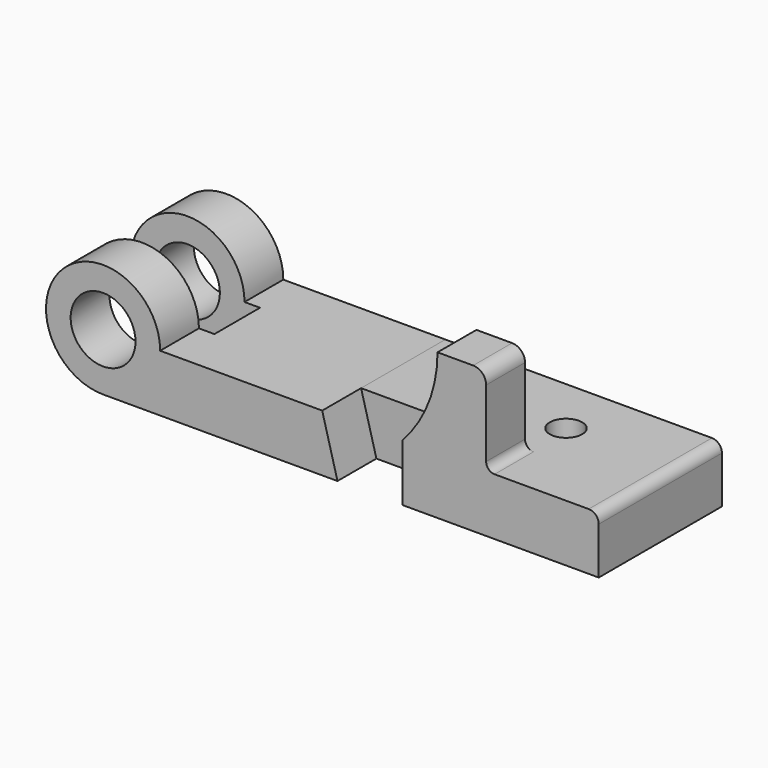
from build123d import *

# Parameters (mm, degrees)
F1_DEPTH = 60.325
F2_DEPTH = 19.05
F0_R     = 12.7
F3_DEPTH = 60.325
F4_DEPTH = 60.325
F5_DEPTH = 19.05
F6_W     = 6.072669208
F6_H     = 22.3266
F6_W_2   = 55.7985371435
F7_DEPTH = 105.41
F8_R     = 6.35
F9_DEPTH = 22.353


with BuildPart() as f1:
    # F0 (on Front) → F1 (new body)
    with BuildSketch(Plane.XZ):
        with BuildLine():
            Line((31.3182, -28.575), (108.2802, -28.575))
            Line((108.2802, -28.575), (108.2802, -10.16))
            ThreePointArc((108.2802, -10.16), (107.1270793975, -7.3761206025), (104.3432, -6.223))
            Line((104.3432, -6.223), (67.4624, -6.223))
            Line((67.4624, -6.223), (31.3182, -6.223))
            Line((31.3182, -6.223), (31.3182, -28.575))
        make_face()
    extrude(amount=-F1_DEPTH)

    # F0 (on Front) → F2 (join)
    with BuildSketch(Plane.XZ):
        with BuildLine():
            ThreePointArc((45.1104, 28.575), (41.5362153616, 9.8593576341), (31.3182, -6.223))
            Line((31.3182, -6.223), (67.4624, -6.223))
            ThreePointArc((67.4624, -6.223), (65.1275334085, -5.2558665915), (64.1604, -2.921))
            Line((64.1604, -2.921), (64.1604, 23.495))
            ThreePointArc((64.1604, 23.495), (62.6725024484, 27.0871024484), (59.0804, 28.575))
            Line((59.0804, 28.575), (45.1104, 28.575))
        make_face()
    extrude(amount=-F2_DEPTH)

    # F8 (on face) → F9 (cut, through all)
    with BuildSketch(Plane.XY.offset(-6.223)):
        with Locations((65.4812, 37.465)):
            Circle(F8_R)
    extrude(amount=-F9_DEPTH, mode=Mode.SUBTRACT)


with BuildPart() as f3:
    # F0 (on Front) → F3 (new body)
    with BuildSketch(Plane.XZ):
        with BuildLine():
            Line((-85.9282, -28.575), (5.9182, -28.575))
            Line((5.9182, -28.575), (-0.0762, -6.223))
            Line((-0.0762, -6.223), (-63.5762, -6.223))
            ThreePointArc((-63.5762, -6.223), (-101.7334507731, 9.5822507731), (-85.9282, -28.575))
        make_face()
        with Locations((-85.9282, -6.223)):
            Circle(F0_R, mode=Mode.SUBTRACT)
    extrude(amount=-F3_DEPTH)

    # F6 (on face) → F7 (cut, symmetric)
    with BuildSketch(Plane.XY.offset(-6.223)):
        with Locations((-60.539865396, 30.1625)):
            Rectangle(F6_W, F6_H)
        with Locations((-91.4754685718, 30.1625)):
            Rectangle(F6_W_2, F6_H)
    extrude(amount=F7_DEPTH, both=True, mode=Mode.SUBTRACT)


with BuildPart() as f4:
    # F0 (on Front) → F4 (new body)
    with BuildSketch(Plane.XZ):
        Polygon((5.9182, -28.575), (31.3182, -28.575), (31.3182, -6.223), (-0.0762, -6.223), align=None)
    extrude(amount=-F4_DEPTH)

    # F0 (on Front) → F5 (cut)
    with BuildSketch(Plane.XZ):
        Polygon((5.9182, -28.575), (31.3182, -28.575), (31.3182, -6.223), (-0.0762, -6.223), align=None)
    extrude(amount=-F5_DEPTH, mode=Mode.SUBTRACT)


solid = Compound([f1.part, f3.part, f4.part])
